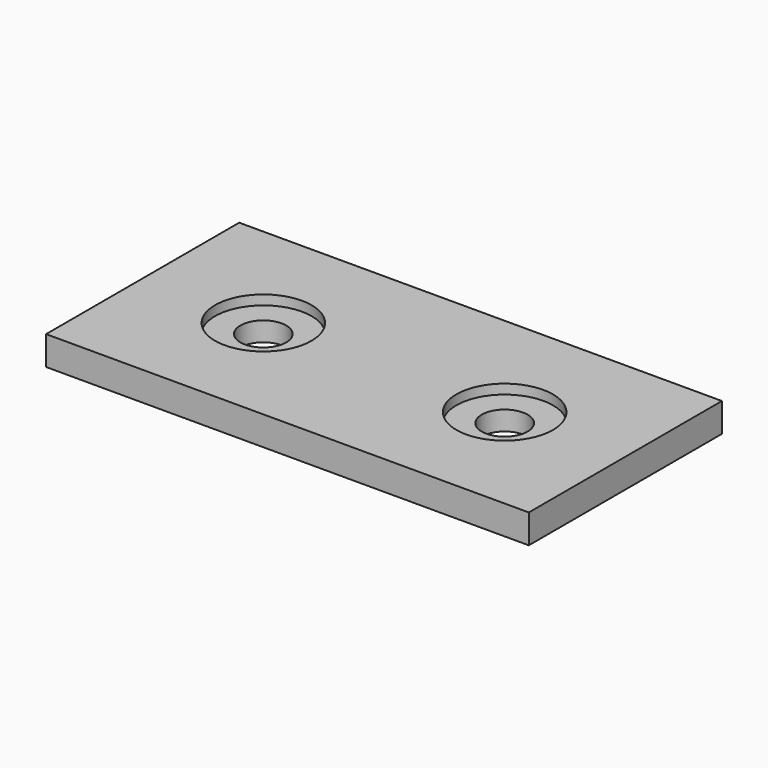
from build123d import *

# Parameters (mm, degrees)
SKETCH_W         = 50.8
SKETCH_H         = 25.4
PAD_DEPTH        = 3.048
HOLE_D           = 4.826
HOLE_DEPTH       = 635
HOLE_CBORE_D     = 10.16
HOLE_CBORE_DEPTH = 1.016


with BuildPart() as part:
    # Sketch → Pad (new body)
    with BuildSketch(Plane.XY):
        Rectangle(SKETCH_W, SKETCH_H)
    extrude(amount=PAD_DEPTH)

    # Hole
    with Locations(Plane.XY.offset(3.048)):
        with Locations((-12.7, 0), (12.7, 0)):
            CounterBoreHole(HOLE_D / 2, HOLE_CBORE_D / 2, HOLE_CBORE_DEPTH, depth=HOLE_DEPTH)


solid = part.part
